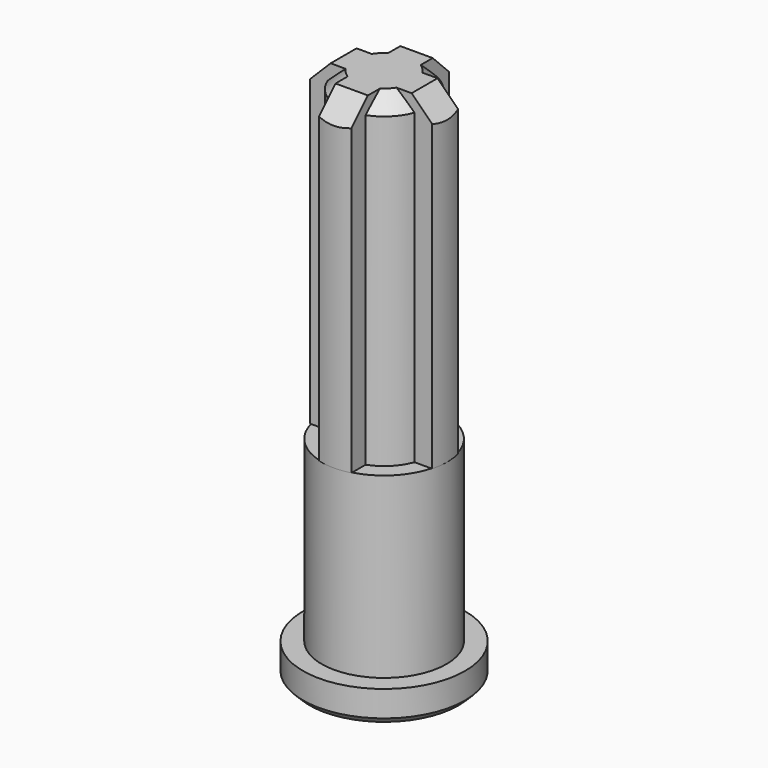
from build123d import *

# Parameters (mm, degrees)
CYLINDER012_R     = 2.86
CYLINDER012_DEPTH = 20
CHAMFER003_SIZE   = 1
CYLINDER010_R     = 3.85
CYLINDER010_DEPTH = 11
CYLINDER009_R     = 5
CYLINDER009_DEPTH = 2
CYLINDER013_R     = 3.9
CYLINDER013_DEPTH = 20
BOX003_W          = 2
BOX003_H          = 8
BOX003_DEPTH      = 20
BOX002_W          = 8
BOX002_H          = 2
BOX002_DEPTH      = 20
CHAMFER002_SIZE   = 1.5
CHAMFER005_SIZE   = 0.4


with BuildPart() as chamfer003:
    # Cylinder012 → Cylinder012 (new body)
    with BuildSketch(Plane.XY.offset(9)):
        Circle(CYLINDER012_R)
    extrude(amount=CYLINDER012_DEPTH)

    # Chamfer003
    chamfer003_edges = [chamfer003.edges().sort_by_distance(p)[0] for p in [
        (-2.86, 0, 29),
    ]]
    chamfer(chamfer003_edges, length=CHAMFER003_SIZE)


with BuildPart() as cylinder010:
    # Cylinder010 → Cylinder010 (new body)
    with BuildSketch(Plane.XY.offset(-2)):
        Circle(CYLINDER010_R)
    extrude(amount=CYLINDER010_DEPTH)


with BuildPart() as cylinder009:
    # Cylinder009 → Cylinder009 (new body)
    with BuildSketch(Plane.XY.offset(-4)):
        Circle(CYLINDER009_R)
    extrude(amount=CYLINDER009_DEPTH)


with BuildPart() as cylinder013:
    # Cylinder013 → Cylinder013 (new body)
    with BuildSketch(Plane.XY.offset(9)):
        Circle(CYLINDER013_R)
    extrude(amount=CYLINDER013_DEPTH)


with BuildPart() as cube003:
    # Box003 → Box003 (new body)
    with BuildSketch(Plane(origin=(-1, -4, 9), x_dir=(1, 0, 0), z_dir=(0, 0, 1))):
        with Locations((1, 4)):
            Rectangle(BOX003_W, BOX003_H)
    extrude(amount=BOX003_DEPTH)


with BuildPart() as chamfer005:
    # Box002 → Box002 (new body)
    with BuildSketch(Plane(origin=(-4, -1, 9), x_dir=(1, 0, 0), z_dir=(0, 0, 1))):
        with Locations((4, 1)):
            Rectangle(BOX002_W, BOX002_H)
    extrude(amount=BOX002_DEPTH)

    # Fusion002: union Cube003
    add(cube003.part)

    # Chamfer002
    chamfer002_edges = [chamfer005.edges().sort_by_distance(p)[0] for p in [
        (-4, 0, 29),
        (0, -4, 29),
        (0, 4, 29),
        (4, 0, 29),
    ]]
    chamfer(chamfer002_edges, length=CHAMFER002_SIZE)

    # Common: intersect Cylinder013
    add(cylinder013.part, mode=Mode.INTERSECT)

    # Fusion003: union Chamfer003, Cylinder010, Cylinder009
    add(chamfer003.part)
    add(cylinder010.part)
    add(cylinder009.part)

    # Chamfer005
    chamfer005_edges = [chamfer005.edges().sort_by_distance(p)[0] for p in [
        (-5, 0, -4),
    ]]
    chamfer(chamfer005_edges, length=CHAMFER005_SIZE)


solid = chamfer005.part
